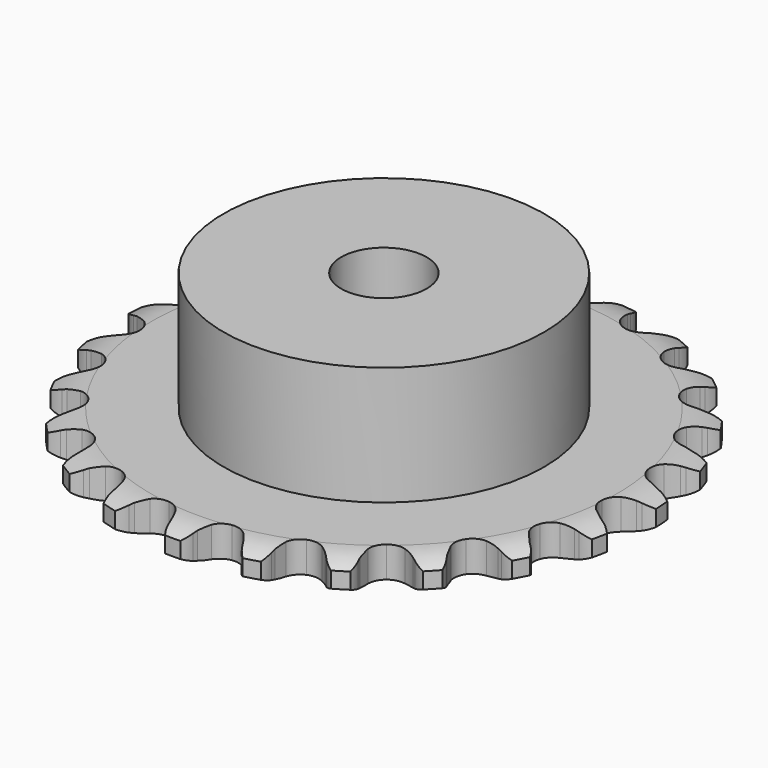
from build123d import *

# Parameters (mm, degrees)
PAD_DEPTH         = 2.9
SKETCH001_R       = 15
PAD001_DEPTH      = 14
SKETCH002_R       = 4
POCKET_DEPTH      = 0.0010001
POCKET_DEPTH_BACK = 14.001


with BuildPart() as part:
    # Sprocket → Pad (new body)
    with BuildSketch(Plane.XY):
        with BuildLine():
            ThreePointArc((-3.4536261209, 25.1269961005), (-2.6341846205, 24.541719481), (-2.0879449998, 23.6957553146))
            Line((-2.0879449998, 23.6957553146), (-1.9279597039, 23.3006413151))
            ThreePointArc((-1.9279597039, 23.3006413151), (-1.6705529616, 22.771351042), (-1.3438434384, 22.2817927598))
            ThreePointArc((-1.3438434384, 22.2817927598), (-0.7488329511, 21.7948954085), (0, 21.6206664726))
            ThreePointArc((0, 21.6206664726), (0.7488329511, 21.7948954085), (1.3438434384, 22.2817927598))
            ThreePointArc((1.3438434384, 22.2817927598), (1.6705529616, 22.771351042), (1.9279597039, 23.3006413151))
            Line((1.9279597039, 23.3006413151), (2.0879449998, 23.6957553146))
            ThreePointArc((2.0879449998, 23.6957553146), (2.6341846205, 24.541719481), (3.4536261209, 25.1269961005))
            ThreePointArc((3.4536261209, 25.1269961005), (4.0847747654, 24.3423404547), (4.3825199386, 23.3803732485))
            Line((4.3825199386, 23.3803732485), (4.4299720645, 22.9567476316))
            ThreePointArc((4.4299720645, 22.9567476316), (4.5350326599, 22.3776373697), (4.7175456639, 21.8180880621))
            ThreePointArc((4.7175456639, 21.8180880621), (5.159128215, 21.1887142771), (5.8331860046, 20.8189135105))
            ThreePointArc((5.8331860046, 20.8189135105), (6.6012566029, 20.7846488524), (7.3055658205, 21.0929588209))
            Line((7.3055658205, 21.0929588209), (8.1429035209, 21.9164330256))
            ThreePointArc((8.1429035209, 21.9164330256), (8.2690828879, 22.0882871179), (8.4035566094, 22.2537316099))
            ThreePointArc((8.4035566094, 22.2537316099), (9.1577785838, 22.9209514442), (10.1047387127, 23.2634417481))
            ThreePointArc((10.1047387127, 23.2634417481), (10.5007850936, 22.3376013957), (10.527953422, 21.3309758567))
            Line((10.527953422, 21.3309758567), (10.4593530707, 20.9102569965))
            ThreePointArc((10.4593530707, 20.9102569965), (10.4042756553, 20.3242767046), (10.4290559856, 19.736235584))
            ThreePointArc((10.4290559856, 19.736235584), (10.6844604428, 19.0110631397), (11.2337512882, 18.4731169734))
            ThreePointArc((11.2337512882, 18.4731169734), (11.9640952511, 18.2328999744), (12.7254678065, 18.3397566201))
            Line((12.7254678065, 18.3397566201), (13.7539254351, 18.9067831595))
            ThreePointArc((13.7539254351, 18.9067831595), (13.9217914081, 19.0382216501), (14.0959148689, 19.1612504357))
            ThreePointArc((14.0959148689, 19.1612504357), (15.0021820035, 19.6002412952), (16.0064290602, 19.6745443444))
            ThreePointArc((16.0064290602, 19.6745443444), (16.1380002293, 18.676184629), (15.8925767622, 17.6995575683))
            Line((15.8925767622, 17.6995575683), (15.7130117079, 17.3129482579))
            ThreePointArc((15.7130117079, 17.3129482579), (15.5018811218, 16.7635574136), (15.3670909346, 16.1906367999))
            ThreePointArc((15.3670909346, 16.1906367999), (15.4173751177, 15.4234484191), (15.8011606299, 14.7572538594))
            ThreePointArc((15.8011606299, 14.7572538594), (16.4396116867, 14.3289003153), (17.2015800603, 14.2263785696))
            Line((17.2015800603, 14.2263785696), (18.3448816197, 14.4949036793))
            ThreePointArc((18.3448816197, 14.4949036793), (18.5419843475, 14.5761783766), (18.7428436072, 14.6476669736))
            ThreePointArc((18.7428436072, 14.6476669736), (19.7339422145, 14.8258709145), (20.7209957889, 14.6264759917))
            ThreePointArc((20.7209957889, 14.6264759917), (20.5783337145, 13.6296406861), (20.0785203876, 12.7554440651))
            Line((20.0785203876, 12.7554440651), (19.8013081491, 12.4316173486))
            ThreePointArc((19.8013081491, 12.4316173486), (19.4497829819, 11.9595617575), (19.1654190488, 11.4442525516))
            ThreePointArc((19.1654190488, 11.4442525516), (19.0068536099, 10.6919470868), (19.1966701731, 9.9469127365))
            ThreePointArc((19.1966701731, 9.9469127365), (19.6958773297, 9.3621916701), (20.4019298131, 9.057895102))
            Line((20.4019298131, 9.057895102), (21.5752818569, 9.008003503))
            ThreePointArc((21.5752818569, 9.008003503), (21.7870031318, 9.0330866345), (21.9997013779, 9.0477330607))
            ThreePointArc((21.9997013779, 9.0477330607), (23.0021262082, 8.9519335119), (23.8987810521, 8.4936288264))
            ThreePointArc((23.8987810521, 8.4936288264), (23.4924663276, 7.572248645), (22.775332009, 6.8653176279))
            Line((22.775332009, 6.8653176279), (22.4210321497, 6.6282902513))
            ThreePointArc((22.4210321497, 6.6282902513), (21.9551834151, 6.2685801172), (21.542335708, 5.8491004454))
            ThreePointArc((21.542335708, 5.8491004454), (21.1866807205, 5.1674729515), (21.1684505084, 4.3988546001))
            ThreePointArc((21.1684505084, 4.3988546001), (21.4913898538, 3.701132098), (22.0891617643, 3.2176289917))
            Line((22.0891617643, 3.2176289917), (23.2055421391, 2.8530209158))
            ThreePointArc((23.2055421391, 2.8530209158), (23.4161795626, 2.8200521804), (23.6249419393, 2.7767701773))
            ThreePointArc((23.6249419393, 2.7767701773), (24.5643477287, 2.4140721531), (25.3041030544, 1.7308480668))
            ThreePointArc((25.3041030544, 1.7308480668), (24.6642701841, 0.9532575627), (23.7830014456, 0.4660219889))
            Line((23.7830014456, 0.4660219889), (23.3778907653, 0.3333731886))
            ThreePointArc((23.3778907653, 0.3333731886), (22.8322683326, 0.1126865664), (22.3215558775, -0.1798526829))
            ThreePointArc((22.3215558775, -0.1798526829), (21.7951886446, -0.7402490131), (21.5702637088, -1.4754464586))
            ThreePointArc((21.5702637088, -1.4754464586), (21.692984309, -2.2344235103), (22.1381416386, -2.8612739412))
            Line((22.1381416386, -2.8612739412), (23.1147535191, -3.5135571811))
            ThreePointArc((23.1147535191, -3.5135571811), (23.3086850773, -3.6021326431), (23.498028634, -3.7001330473))
            ThreePointArc((23.498028634, -3.7001330473), (24.3047439526, -4.3028298937), (24.8327354917, -5.1603017758))
            ThreePointArc((24.8327354917, -5.1603017758), (24.0068379526, -5.7364322722), (23.0267944649, -5.967836369))
            Line((23.0267944649, -5.967836369), (22.6009181695, -5.9862686385))
            ThreePointArc((22.6009181695, -5.9862686385), (22.0159883586, -6.0515644315), (21.4452883618, -6.1954669604))
            ThreePointArc((21.4452883618, -6.1954669604), (20.7872471333, -6.5930700947), (20.3723091273, -7.2403204032))
            ThreePointArc((20.3723091273, -7.2403204032), (20.2857093569, -8.0042621487), (20.5452368229, -8.7279692753))
            Line((20.5452368229, -8.7279692753), (21.3096493736, -9.6195508154))
            ThreePointArc((21.3096493736, -9.6195508154), (21.4724920498, -9.7571637672), (21.6283740413, -9.9026143307))
            ThreePointArc((21.6283740413, -9.9026143307), (22.2425685044, -10.7006107314), (22.5196375398, -11.6687356425))
            ThreePointArc((22.5196375398, -11.6687356425), (21.5689283741, -12.0006771679), (20.5627954793, -11.9590876045))
            Line((20.5627954793, -11.9590876045), (20.1477388654, -11.8619363061))
            ThreePointArc((20.1477388654, -11.8619363061), (19.5668832445, -11.7669985796), (18.978521914, -11.7515917959))
            ThreePointArc((18.978521914, -11.7515917959), (18.2376105975, -11.9569133287), (17.663433575, -12.4682129058))
            ThreePointArc((17.663433575, -12.4682129058), (17.3739361426, -13.1804612806), (17.4285857801, -13.9473510561))
            Line((17.4285857801, -13.9473510561), (17.9241060192, -15.0121063721))
            ThreePointArc((17.9241060192, -15.0121063721), (18.0437825172, -15.1885506906), (18.1546418891, -15.3706640107))
            ThreePointArc((18.1546418891, -15.3706640107), (18.5307635032, -16.3047762232), (18.536361092, -17.3117527675))
            ThreePointArc((18.536361092, -17.3117527675), (17.5313500494, -17.3748867375), (16.5737480215, -17.0633880215))
            Line((16.5737480215, -17.0633880215), (16.2002939394, -16.8578584225))
            ThreePointArc((16.2002939394, -16.8578584225), (15.6665919126, -16.6097282735), (15.1042053168, -16.4361548279))
            ThreePointArc((15.1042053168, -16.4361548279), (14.3353739152, -16.4339670004), (13.6445419592, -16.7713950954))
            ThreePointArc((13.6445419592, -16.7713950954), (13.1736175651, -17.3791258958), (13.0193362606, -18.132321614))
            Line((13.0193362606, -18.132321614), (13.2092137187, -19.2912826751))
            ThreePointArc((13.2092137187, -19.2912826751), (13.2768481801, -19.4934722924), (13.334463, -19.6987418571))
            ThreePointArc((13.334463, -19.6987418571), (13.4446165455, -20.6996910518), (13.1783275403, -21.6708363858))
            ThreePointArc((13.1783275403, -21.6708363858), (12.1935516921, -21.4604804426), (11.3555014929, -20.9021750088))
            Line((11.3555014929, -20.9021750088), (11.0513473233, -20.6035102993))
            ThreePointArc((11.0513473233, -20.6035102993), (10.6043811285, -20.2205904057), (10.1096789084, -19.9017234467))
            ThreePointArc((10.1096789084, -19.9017234467), (9.3699481295, -19.69218852), (8.6136970859, -19.8307196348))
            ThreePointArc((8.6136970859, -19.8307196348), (7.9962720382, -20.2888602476), (7.6445021301, -20.9725008275))
            Line((7.6445021301, -20.9725008275), (7.5146544648, -22.1397127938))
            ThreePointArc((7.5146544648, -22.1397127938), (7.525230751, -22.3526522309), (7.5253279913, -22.5658541358))
            ThreePointArc((7.5253279913, -22.5658541358), (7.3613438837, -23.55940449), (6.8429177217, -24.4226932068))
            ThreePointArc((6.8429177217, -24.4226932068), (5.9514133876, -23.9544484885), (5.2950693664, -23.1907432968))
            Line((5.2950693664, -23.1907432968), (5.0827728329, -22.821094072))
            ThreePointArc((5.0827728329, -22.821094072), (4.7556919079, -22.3317838507), (4.3653638641, -21.8912722817))
            ThreePointArc((4.3653638641, -21.8912722817), (3.7095961557, -21.4899305029), (2.9440137048, -21.4192904184))
            ThreePointArc((2.9440137048, -21.4192904184), (2.2258795946, -21.6938626502), (1.7027102479, -22.2572455976))
            Line((1.7027102479, -22.2572455976), (1.2627676665, -23.346141697))
            ThreePointArc((1.2627676665, -23.346141697), (1.2155013827, -23.55403821), (1.1580738316, -23.7593602451))
            ThreePointArc((1.1580738316, -23.7593602451), (0.7321140219, -24.6718246742), (0, -25.363230599))
            ThreePointArc((0, -25.363230599), (-0.7321140219, -24.6718246742), (-1.1580738316, -23.7593602451))
            Line((-1.1580738316, -23.7593602451), (-1.2627676665, -23.346141697))
            ThreePointArc((-1.2627676665, -23.346141697), (-1.4457052256, -22.7867310485), (-1.7027102479, -22.2572455976))
            ThreePointArc((-1.7027102479, -22.2572455976), (-2.2258795946, -21.6938626502), (-2.9440137048, -21.4192904184))
            ThreePointArc((-2.9440137048, -21.4192904184), (-3.7095961557, -21.4899305029), (-4.3653638641, -21.8912722817))
            Line((-4.3653638641, -21.8912722817), (-5.0827728329, -22.821094072))
            ThreePointArc((-5.0827728329, -22.821094072), (-5.1843761626, -23.0085289277), (-5.2950693664, -23.1907432968))
            ThreePointArc((-5.2950693664, -23.1907432968), (-5.9514133876, -23.9544484885), (-6.8429177217, -24.4226932068))
            ThreePointArc((-6.8429177217, -24.4226932068), (-7.3613438837, -23.55940449), (-7.5253279913, -22.5658541358))
            Line((-7.5253279913, -22.5658541358), (-7.5146544648, -22.1397127938))
            ThreePointArc((-7.5146544648, -22.1397127938), (-7.5398810163, -21.5516906468), (-7.6445021301, -20.9725008275))
            ThreePointArc((-7.6445021301, -20.9725008275), (-7.9962720382, -20.2888602476), (-8.6136970859, -19.8307196348))
            ThreePointArc((-8.6136970859, -19.8307196348), (-9.3699481295, -19.69218852), (-10.1096789084, -19.9017234467))
            Line((-10.1096789084, -19.9017234467), (-11.0513473233, -20.6035102993))
            ThreePointArc((-11.0513473233, -20.6035102993), (-11.1997522448, -20.7565823118), (-11.3555014929, -20.9021750088))
            ThreePointArc((-11.3555014929, -20.9021750088), (-12.1935516921, -21.4604804426), (-13.1783275403, -21.6708363858))
            ThreePointArc((-13.1783275403, -21.6708363858), (-13.4446165455, -20.6996910518), (-13.334463, -19.6987418571))
            Line((-13.334463, -19.6987418571), (-13.2092137187, -19.2912826751))
            ThreePointArc((-13.2092137187, -19.2912826751), (-13.0748583246, -18.7182599423), (-13.0193362606, -18.132321614))
            ThreePointArc((-13.0193362606, -18.132321614), (-13.1736175651, -17.3791258958), (-13.6445419592, -16.7713950954))
            ThreePointArc((-13.6445419592, -16.7713950954), (-14.3353739152, -16.4339670004), (-15.1042053168, -16.4361548279))
            Line((-15.1042053168, -16.4361548279), (-16.2002939394, -16.8578584225))
            ThreePointArc((-16.2002939394, -16.8578584225), (-16.3844939385, -16.9652149408), (-16.5737480215, -17.0633880215))
            ThreePointArc((-16.5737480215, -17.0633880215), (-17.5313500494, -17.3748867375), (-18.536361092, -17.3117527675))
            ThreePointArc((-18.536361092, -17.3117527675), (-18.5307635032, -16.3047762232), (-18.1546418891, -15.3706640107))
            Line((-18.1546418891, -15.3706640107), (-17.9241060192, -15.0121063721))
            ThreePointArc((-17.9241060192, -15.0121063721), (-17.6401332045, -14.4965815282), (-17.4285857801, -13.9473510561))
            ThreePointArc((-17.4285857801, -13.9473510561), (-17.3739361426, -13.1804612806), (-17.663433575, -12.4682129058))
            ThreePointArc((-17.663433575, -12.4682129058), (-18.2376105975, -11.9569133287), (-18.978521914, -11.7515917959))
            Line((-18.978521914, -11.7515917959), (-20.1477388654, -11.8619363061))
            ThreePointArc((-20.1477388654, -11.8619363061), (-20.3540726709, -11.9156151885), (-20.5627954793, -11.9590876045))
            ThreePointArc((-20.5627954793, -11.9590876045), (-21.5689283741, -12.0006771679), (-22.5196375398, -11.6687356425))
            ThreePointArc((-22.5196375398, -11.6687356425), (-22.2425685044, -10.7006107314), (-21.6283740413, -9.9026143307))
            Line((-21.6283740413, -9.9026143307), (-21.3096493736, -9.6195508154))
            ThreePointArc((-21.3096493736, -9.6195508154), (-20.8971201028, -9.1997579796), (-20.5452368229, -8.7279692753))
            ThreePointArc((-20.5452368229, -8.7279692753), (-20.2857093569, -8.0042621487), (-20.3723091273, -7.2403204032))
            ThreePointArc((-20.3723091273, -7.2403204032), (-20.7872471333, -6.5930700947), (-21.4452883618, -6.1954669604))
            Line((-21.4452883618, -6.1954669604), (-22.6009181695, -5.9862686385))
            ThreePointArc((-22.6009181695, -5.9862686385), (-22.8140829469, -5.9822887679), (-23.0267944649, -5.967836369))
            ThreePointArc((-23.0267944649, -5.967836369), (-24.0068379526, -5.7364322722), (-24.8327354917, -5.1603017758))
            ThreePointArc((-24.8327354917, -5.1603017758), (-24.3047439526, -4.3028298937), (-23.498028634, -3.7001330473))
            Line((-23.498028634, -3.7001330473), (-23.1147535191, -3.5135571811))
            ThreePointArc((-23.1147535191, -3.5135571811), (-22.6042632011, -3.2206304677), (-22.1381416386, -2.8612739412))
            ThreePointArc((-22.1381416386, -2.8612739412), (-21.692984309, -2.2344235103), (-21.5702637088, -1.4754464586))
            ThreePointArc((-21.5702637088, -1.4754464586), (-21.7951886446, -0.7402490131), (-22.3215558775, -0.1798526829))
            Line((-22.3215558775, -0.1798526829), (-23.3778907653, 0.3333731886))
            ThreePointArc((-23.3778907653, 0.3333731886), (-23.5820770582, 0.3947166435), (-23.7830014456, 0.4660219889))
            ThreePointArc((-23.7830014456, 0.4660219889), (-24.6642701841, 0.9532575627), (-25.3041030544, 1.7308480668))
            ThreePointArc((-25.3041030544, 1.7308480668), (-24.5643477287, 2.4140721531), (-23.6249419393, 2.7767701773))
            Line((-23.6249419393, 2.7767701773), (-23.2055421391, 2.8530209158))
            ThreePointArc((-23.2055421391, 2.8530209158), (-22.6349515054, 2.9973564725), (-22.0891617643, 3.2176289917))
            ThreePointArc((-22.0891617643, 3.2176289917), (-21.4913898538, 3.701132098), (-21.1684505084, 4.3988546001))
            ThreePointArc((-21.1684505084, 4.3988546001), (-21.1866807205, 5.1674729515), (-21.542335708, 5.8491004454))
            Line((-21.542335708, 5.8491004454), (-22.4210321497, 6.6282902513))
            ThreePointArc((-22.4210321497, 6.6282902513), (-22.601096395, 6.7424477271), (-22.775332009, 6.8653176279))
            ThreePointArc((-22.775332009, 6.8653176279), (-23.4924663276, 7.572248645), (-23.8987810521, 8.4936288264))
            ThreePointArc((-23.8987810521, 8.4936288264), (-23.0021262082, 8.9519335119), (-21.9997013779, 9.0477330607))
            Line((-21.9997013779, 9.0477330607), (-21.5752818569, 9.008003503))
            ThreePointArc((-21.5752818569, 9.008003503), (-20.9869090045, 8.9930431952), (-20.4019298131, 9.057895102))
            ThreePointArc((-20.4019298131, 9.057895102), (-19.6958773297, 9.3621916701), (-19.1966701731, 9.9469127365))
            ThreePointArc((-19.1966701731, 9.9469127365), (-19.0068536099, 10.6919470868), (-19.1654190488, 11.4442525516))
            Line((-19.1654190488, 11.4442525516), (-19.8013081491, 12.4316173486))
            ThreePointArc((-19.8013081491, 12.4316173486), (-19.9438958053, 12.5901223075), (-20.0785203876, 12.7554440651))
            ThreePointArc((-20.0785203876, 12.7554440651), (-20.5783337145, 13.6296406861), (-20.7209957889, 14.6264759917))
            ThreePointArc((-20.7209957889, 14.6264759917), (-19.7339422145, 14.8258709145), (-18.7428436072, 14.6476669736))
            Line((-18.7428436072, 14.6476669736), (-18.3448816197, 14.4949036793))
            ThreePointArc((-18.3448816197, 14.4949036793), (-17.7823634715, 14.3217570445), (-17.2015800603, 14.2263785696))
            ThreePointArc((-17.2015800603, 14.2263785696), (-16.4396116867, 14.3289003153), (-15.8011606299, 14.7572538594))
            ThreePointArc((-15.8011606299, 14.7572538594), (-15.4173751177, 15.4234484191), (-15.3670909346, 16.1906367999))
            Line((-15.3670909346, 16.1906367999), (-15.7130117079, 17.3129482579))
            ThreePointArc((-15.7130117079, 17.3129482579), (-15.807547701, 17.5040451123), (-15.8925767622, 17.6995575683))
            ThreePointArc((-15.8925767622, 17.6995575683), (-16.1380002293, 18.676184629), (-16.0064290602, 19.6745443444))
            ThreePointArc((-16.0064290602, 19.6745443444), (-15.0021820035, 19.6002412952), (-14.0959148689, 19.1612504357))
            Line((-14.0959148689, 19.1612504357), (-13.7539254351, 18.9067831595))
            ThreePointArc((-13.7539254351, 18.9067831595), (-13.2589813888, 18.5882916915), (-12.7254678065, 18.3397566201))
            ThreePointArc((-12.7254678065, 18.3397566201), (-11.9640952511, 18.2328999744), (-11.2337512882, 18.4731169734))
            ThreePointArc((-11.2337512882, 18.4731169734), (-10.6844604428, 19.0110631397), (-10.4290559856, 19.736235584))
            Line((-10.4290559856, 19.736235584), (-10.4593530707, 20.9102569965))
            ThreePointArc((-10.4593530707, 20.9102569965), (-10.4988260984, 21.1197729667), (-10.527953422, 21.3309758567))
            ThreePointArc((-10.527953422, 21.3309758567), (-10.5007850936, 22.3376013957), (-10.1047387127, 23.2634417481))
            ThreePointArc((-10.1047387127, 23.2634417481), (-9.1577785838, 22.9209514442), (-8.4035566094, 22.2537316099))
            Line((-8.4035566094, 22.2537316099), (-8.1429035209, 21.9164330256))
            ThreePointArc((-8.1429035209, 21.9164330256), (-7.7522413122, 21.4762177795), (-7.3055658205, 21.0929588209))
            ThreePointArc((-7.3055658205, 21.0929588209), (-6.6012566029, 20.7846488524), (-5.8331860046, 20.8189135105))
            ThreePointArc((-5.8331860046, 20.8189135105), (-5.159128215, 21.1887142771), (-4.7175456639, 21.8180880621))
            Line((-4.7175456639, 21.8180880621), (-4.4299720645, 22.9567476316))
            ThreePointArc((-4.4299720645, 22.9567476316), (-4.411454593, 23.1691438768), (-4.3825199386, 23.3803732485))
            ThreePointArc((-4.3825199386, 23.3803732485), (-4.0847747654, 24.3423404547), (-3.4536261209, 25.1269961005))
        make_face()
    extrude(amount=PAD_DEPTH)

    # Sketch → Groove (revolve, cut)
    with BuildSketch(Plane.XZ):
        with BuildLine():
            Line((21.7896735578, 0), (24.7, 0))
            Line((27.6103264422, 0), (24.7, 0))
            Line((27.6103264422, 2.9), (27.6103264422, 0))
            Line((24.7, 2.9), (27.6103264422, 2.9))
            Line((21.7896735578, 2.9), (24.7, 2.9))
            ThreePointArc((24.7, 2.2), (23.2863365125, 2.7225396744), (21.7896735578, 2.9))
            Line((24.7, 0.7), (24.7, 2.2))
            ThreePointArc((21.7896735578, 0), (23.2863365125, 0.1774603256), (24.7, 0.7))
        make_face()
    revolve(axis=Axis((0, 0, 0), (0, 0, 1)), mode=Mode.SUBTRACT)

    # Sketch001 → Pad001 (join)
    with BuildSketch(Plane.XY):
        Circle(SKETCH001_R)
    extrude(amount=PAD001_DEPTH)

    # Sketch002 → Pocket (cut, two sides)
    with BuildSketch(Plane.XY) as pocket_sk:
        Circle(SKETCH002_R)
    extrude(amount=-POCKET_DEPTH, mode=Mode.SUBTRACT)
    extrude(pocket_sk.sketch, amount=POCKET_DEPTH_BACK, mode=Mode.SUBTRACT)


solid = part.part
